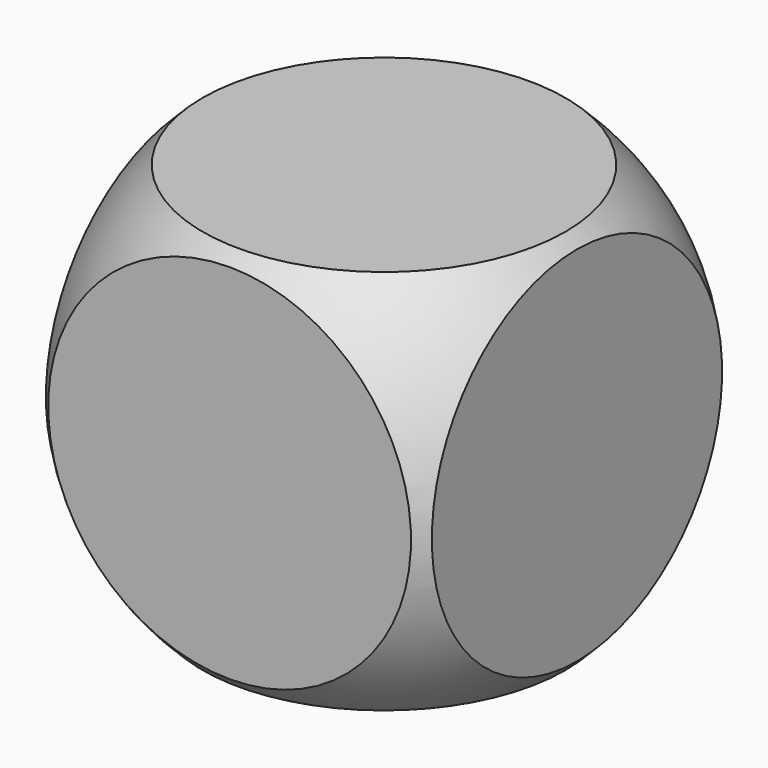
from build123d import *

# Parameters (mm, degrees)
F0_W     = 25
F0_H     = 25
F1_DEPTH = 12.5


with BuildPart() as f1:
    # F0 (on Front) → F1 (new body, symmetric)
    with BuildSketch(Plane.XZ):
        Rectangle(F0_W, F0_H)
    extrude(amount=F1_DEPTH, both=True)

    # F2 (on Front) → F3 (revolve, intersect)
    with BuildSketch(Plane.XZ):
        with BuildLine():
            Line((0, -17.155538), (0, 17.155538))
            ThreePointArc((0, 17.155538), (-17.155538, 0), (0, -17.155538))
        make_face()
    revolve(axis=Axis((0, 0, 0), (0, 0, -1)), mode=Mode.INTERSECT)


solid = f1.part
